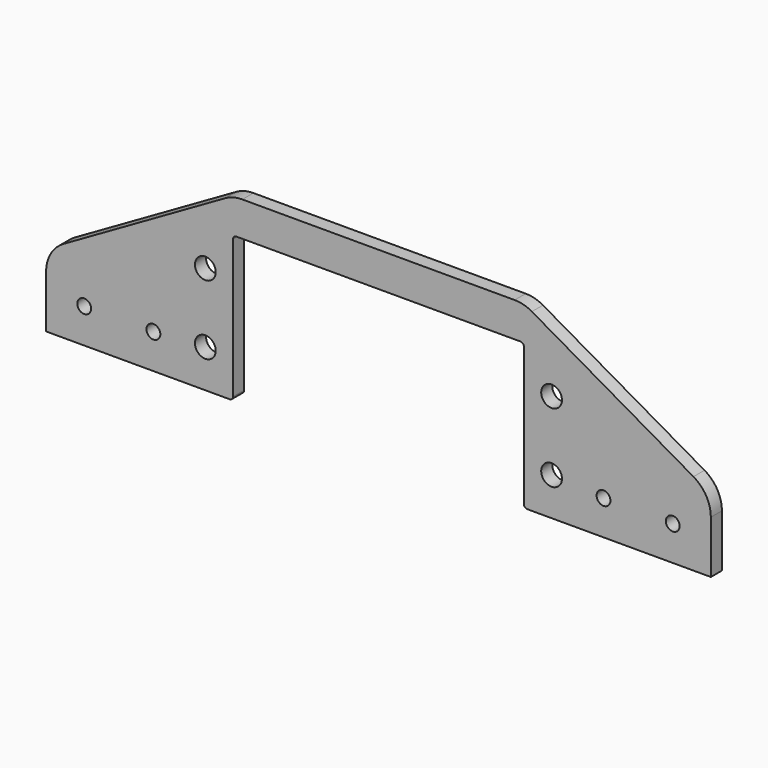
from build123d import *

# Parameters (mm, degrees)
F0_R     = 1
F0_R_2   = 1.5
F1_DEPTH = 2


with BuildPart() as f1:
    # F0 (on Front) → F1 (new body)
    with BuildSketch(Plane.XZ):
        with BuildLine():
            ThreePointArc((-21, 10), (-20.853553, 10.353553), (-20.5, 10.5))
            Line((-20.5, 10.5), (20.5, 10.5))
            ThreePointArc((20.5, 10.5), (20.853553, 10.353553), (21, 10))
            Line((21, 10), (21, -10))
            ThreePointArc((21, -10), (21.146447, -10.353553), (21.5, -10.5))
            Line((21.5, -10.5), (30, -10.5))
            Line((30, -10.5), (45, -10.5))
            Line((45, -10.5), (48, -10.5))
            Line((48, -10.5), (48, -2.894959))
            ThreePointArc((48, -2.894959), (47.327048, -0.389634), (45.489338, 1.441306))
            Line((45.489338, 1.441306), (22.156183, 14.836265))
            ThreePointArc((22.156183, 14.836265), (20.954997, 15.331218), (19.666845, 15.5))
            Line((19.666845, 15.5), (0, 15.5))
            Line((0, 15.5), (-19.666845, 15.5))
            ThreePointArc((-19.666845, 15.5), (-20.954997, 15.331218), (-22.156183, 14.836265))
            Line((-22.156183, 14.836265), (-45.489338, 1.441306))
            ThreePointArc((-45.489338, 1.441306), (-47.327048, -0.389634), (-48, -2.894959))
            Line((-48, -2.894959), (-48, -10.5))
            Line((-48, -10.5), (-45, -10.5))
            Line((-45, -10.5), (-30, -10.5))
            Line((-30, -10.5), (-21.5, -10.5))
            ThreePointArc((-21.5, -10.5), (-21.146447, -10.353553), (-21, -10))
            Line((-21, -10), (-21, 10))
        make_face()
        with Locations((-42.5, -5.5)):
            Circle(F0_R, mode=Mode.SUBTRACT)
        with Locations((-32.5, -5.5)):
            Circle(F0_R, mode=Mode.SUBTRACT)
        with Locations((-25, -5)):
            Circle(F0_R_2, mode=Mode.SUBTRACT)
        with Locations((25, -5)):
            Circle(F0_R_2, mode=Mode.SUBTRACT)
        with Locations((32.5, -5.5)):
            Circle(F0_R, mode=Mode.SUBTRACT)
        with Locations((42.5, -5.5)):
            Circle(F0_R, mode=Mode.SUBTRACT)
        with Locations((-25, 5)):
            Circle(F0_R_2, mode=Mode.SUBTRACT)
        with Locations((25, 5)):
            Circle(F0_R_2, mode=Mode.SUBTRACT)
    extrude(amount=F1_DEPTH)


solid = f1.part
